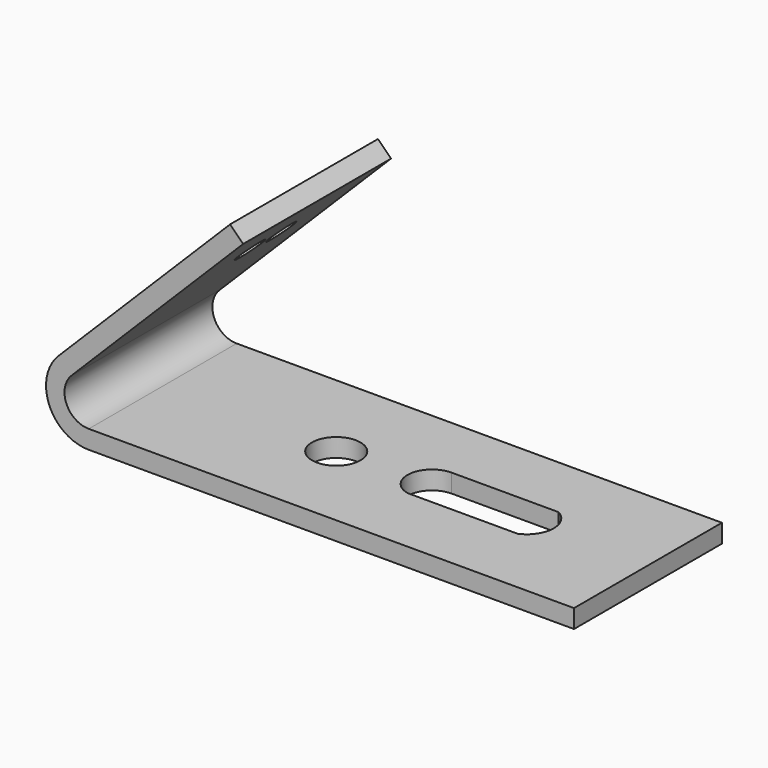
from build123d import *

# Parameters (mm, degrees)
F1_DEPTH = 19.05
F2_R     = 1.5
F3_DEPTH = 12.7
F4_R     = 2.5
F5_DEPTH = 12.7


with BuildPart() as f1:
    # F0 (on Front) → F1 (new body)
    with BuildSketch(Plane.XZ):
        with BuildLine():
            Line((-43.747465, 0), (6.252535, 0))
            Line((6.252535, 0), (6.252535, 1.900001))
            Line((6.252535, 1.900001), (-43.747465, 1.900001))
            ThreePointArc((-43.747465, 1.900001), (-46.057163, 3.443292), (-45.515231, 6.167766))
            Line((-45.515231, 6.167766), (-27.837562, 23.845436))
            Line((-27.837562, 23.845436), (-29.181065, 25.188939))
            Line((-29.181065, 25.188939), (-46.858735, 7.51127))
            ThreePointArc((-46.858735, 7.51127), (-47.812535, 2.716193), (-43.747465, 0))
        make_face()
    extrude(amount=-F1_DEPTH)

    # F2 (on face) → F3 (cut)
    with BuildSketch(Plane(origin=(-27.185002, 0, 27.185002), x_dir=(0, -1, 0), z_dir=(-0.707107, 0, 0.707107))):
        with Locations((-7.5, -10.322859)):
            Circle(F2_R)
        with Locations((-11.55, -10.322859)):
            Circle(F2_R)
    extrude(amount=-F3_DEPTH, mode=Mode.SUBTRACT)

    # F4 (on face) → F5 (cut)
    with BuildSketch(Plane(origin=(0, 0, 0), x_dir=(1, 0, 0), z_dir=(0, 0, -1))):
        with BuildLine():
            Line((-5.372359, -7.282656), (-16.72876, -7.282656))
            ThreePointArc((-16.72876, -7.282656), (-18.690573, -10.030443), (-16.175304, -12.282656))
            Line((-16.175304, -12.282656), (-5.164585, -12.282656))
            ThreePointArc((-5.164585, -12.282656), (-3.70868, -9.717839), (-5.372359, -7.282656))
        make_face()
        with Locations((-25.747465, -9.375455)):
            Circle(F4_R)
    extrude(amount=-F5_DEPTH, mode=Mode.SUBTRACT)


solid = f1.part
